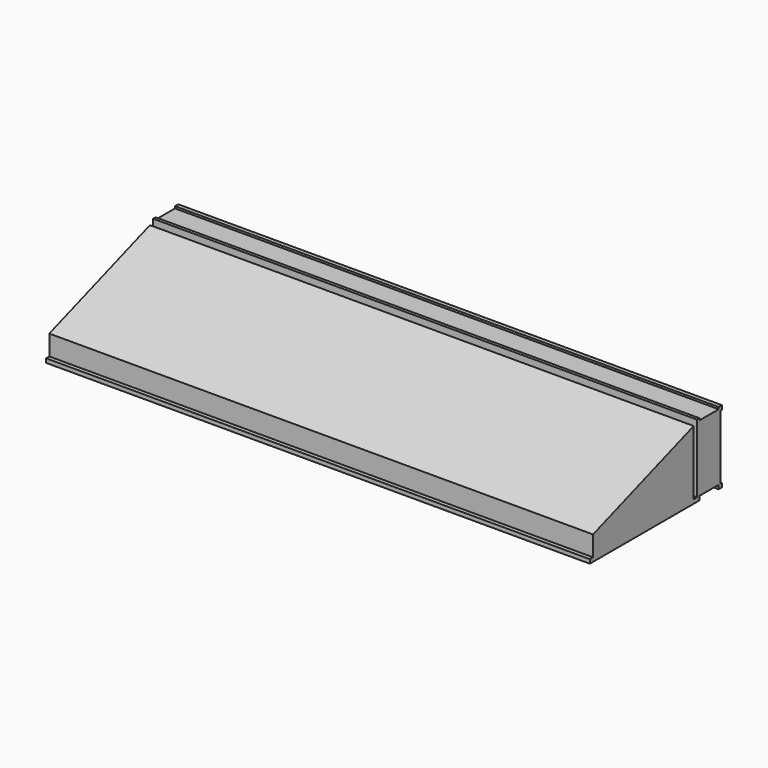
from build123d import *

# Parameters (mm, degrees)
F1_DEPTH = 13500


with BuildPart() as f1:
    # F0 (on Right) → F1 (new body)
    with BuildSketch(Plane.YZ):
        Polygon((-100, 0), (0, 0), (0, 100), (-50, 100), (-50, 1700), (0, 1700), (0, 1800), (-100, 1800), (-100, 1750), (-700, 1750), (-700, 1800), (-776.63, 1800), (-776.63, 1750), (-776.63, 100), (-876.63, 100.000002), (-876.63, 1700.000002), (-4000, 600), (-4000, 100), (-4100, 100), (-4100, 0), (-900, 0), (-800, 0), (-700, 0), (-700, 100), (-100, 100), align=None)
    extrude(amount=F1_DEPTH)


solid = f1.part
